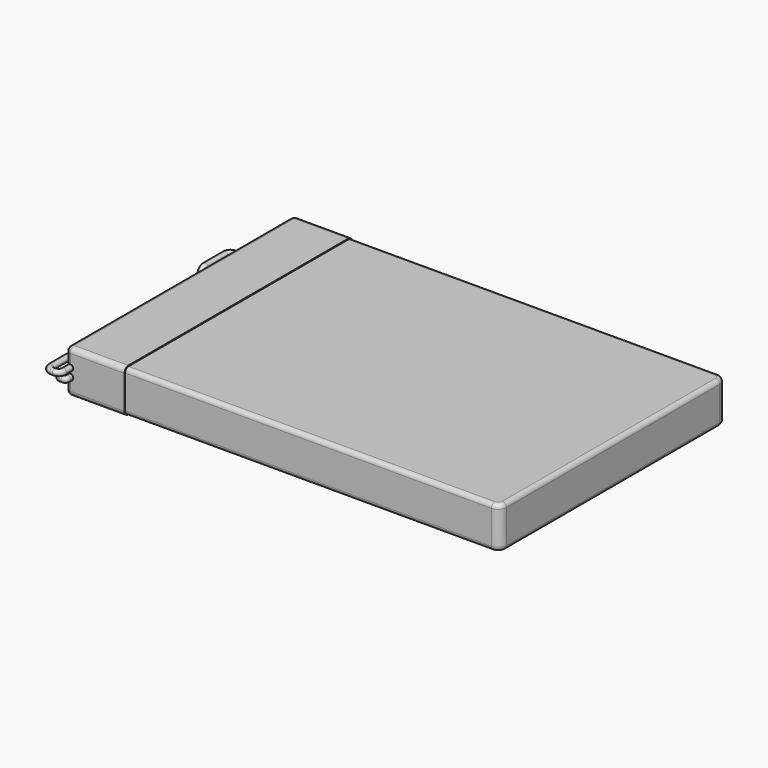
from build123d import *

# Parameters (mm, degrees)
SKETCH_W     = 52
SKETCH_H     = 34
PAD_DEPTH    = 2.5
FILLET_R     = 1
FILLET001_R  = 0.5
PAD001_DEPTH = 7
FILLET002_R  = 0.5
SKETCH002_R  = 0.35
SKETCH005_R  = 0.35
SKETCH006_R  = 0.35
SKETCH008_R  = 0.35
SKETCH010_W  = 3
SKETCH010_H  = 4
PAD002_DEPTH = 0.5
SKETCH011_W  = 2
SKETCH011_H  = 3
PAD003_DEPTH = 3
SKETCH012_W  = 1.156093
SKETCH012_H  = 0.532709
POCKET_DEPTH = 5


with BuildPart() as body:
    # Sketch → Pad (new body, symmetric)
    with BuildSketch(Plane.XY):
        Rectangle(SKETCH_W, SKETCH_H)
    extrude(amount=PAD_DEPTH, both=True)

    # Fillet
    fillet_edges = [body.edges().sort_by_distance(p)[0] for p in [
        (26, -17, 0),
        (26, 17, 0),
    ]]
    fillet(fillet_edges, radius=FILLET_R)

    # Fillet001
    fillet001_edges = [body.edges().sort_by_distance(p)[0] for p in [
        (-0.5, -17, 2.5),
        (-0.5, -17, -2.5),
    ]]
    fillet(fillet001_edges, radius=FILLET001_R)

    # Sketch001 (on Face5 of Fillet001) → Pad001 (join)
    with BuildSketch(Plane(origin=(-26, 0, 0), x_dir=(0, -1, 0), z_dir=(-1, 0, 0))):
        with BuildLine():
            ThreePointArc((-17.1, -2), (-16.9242640687, -2.4242640687), (-16.5, -2.6))
            Line((16.5, -2.6), (-16.5, -2.6))
            ThreePointArc((16.5, -2.6), (16.9242640687, -2.4242640687), (17.1, -2))
            Line((17.1, 2), (17.1, -2))
            ThreePointArc((17.1, 2), (16.9242640687, 2.4242640687), (16.5, 2.6))
            Line((-16.5, 2.6), (16.5, 2.6))
            ThreePointArc((-16.5, 2.6), (-16.9242640687, 2.4242640687), (-17.1, 2))
            Line((-17.1, -2), (-17.1, 2))
        make_face()
    extrude(amount=-PAD001_DEPTH)

    # Fillet002
    fillet002_edges = [body.edges().sort_by_distance(p)[0] for p in [
        (-26, 0, 2.6),
    ]]
    fillet(fillet002_edges, radius=FILLET002_R)

    # AdditivePipe: sweep along a path in Sketch003
    with BuildLine(Plane.XY.offset(0.5)) as additivepipe_path:
        Line((-25.5, -17.1), (-25.5, -18.1))
        ThreePointArc((-25.5, -18.1), (-25.6757359313, -18.5242640687), (-26.1, -18.7))
        Line((-26.1, -18.7), (-26.4, -18.7))
        ThreePointArc((-26.4, -18.7), (-26.8242640687, -18.5242640687), (-27, -18.1))
        Line((-27, -18.1), (-27, 9.9))
        ThreePointArc((-27, 9.9), (-27.1757359313, 10.3242640687), (-27.6, 10.5))
        Line((-27.6, 10.5), (-27.9, 10.5))
        ThreePointArc((-27.9, 10.5), (-28.3242640687, 10.3242640687), (-28.5, 9.9))
        Line((-28.5, 9.9), (-28.5, 6.9))
    # Sketch002 (on Face12 of Fillet002) → AdditivePipe (sweep)
    with BuildSketch(Plane.XZ.offset(17.1)):
        with Locations((-25.5, 0.5)):
            Circle(SKETCH002_R)
    sweep(path=additivepipe_path.line)

    # AdditivePipe001: sweep along a path in Sketch004
    with BuildLine(Plane.YZ.offset(-28.5)) as additivepipe001_path:
        ThreePointArc((6.9, 0.5), (6.4757359263, 0.3242640714), (6.2999999923, -0.1))
        Line((6.2999999923, -0.1), (6.2999999923, -1.1))
    # Sketch005 (on Face46 of AdditivePipe) → AdditivePipe001 (sweep)
    with BuildSketch(Plane.XZ.offset(-6.9)):
        with Locations((-28.5, 0.5)):
            Circle(SKETCH005_R)
    sweep(path=additivepipe001_path.line)

    # AdditivePipe002: sweep along a path in Sketch007
    with BuildLine(Plane.XY.offset(-0.5)) as additivepipe002_path:
        Line((-25.5, -17.1), (-25.5, -17.514687))
        ThreePointArc((-25.5, -17.514687), (-25.5822984625, -17.7133730643), (-25.7809845268, -17.7956715268))
        Line((-25.7809845268, -17.7956715268), (-26.0556564732, -17.7956715268))
        ThreePointArc((-26.0556564732, -17.7956715268), (-26.2543425375, -17.7133730643), (-26.336641, -17.514687))
        Line((-26.336641, -17.514687), (-26.336641, 8.9150462299))
        ThreePointArc((-26.336641, 8.9150462299), (-26.4189394625, 9.1137322942), (-26.6176255268, 9.1960307567))
        Line((-26.6176255268, 9.1960307567), (-27.1886263708, 9.1960307567))
        ThreePointArc((-27.1886263708, 9.1960307567), (-27.3873124351, 9.1137322942), (-27.4696108976, 8.9150462299))
        Line((-27.4696108976, 8.9150462299), (-27.4696108976, 5.598731777))
        ThreePointArc((-27.4696108976, 5.598731777), (-27.6403809339, 5.1799501118), (-28.0553007402, 5))
    # Sketch006 (on Face12 of AdditivePipe001) → AdditivePipe002 (sweep)
    with BuildSketch(Plane.XZ.offset(17.1)):
        with Locations((-25.5, -0.5)):
            Circle(SKETCH006_R)
    sweep(path=additivepipe002_path.line)

    # AdditivePipe003: sweep along a path in Sketch009
    with BuildLine(Plane.XZ.offset(-5)) as additivepipe003_path:
        ThreePointArc((-28.0553007402, -0.5), (-28.4118255913, -0.6493882878), (-28.5553628449, -1.0083087342))
    # Sketch008 (on Face53 of AdditivePipe002) → AdditivePipe003 (sweep)
    with BuildSketch(Plane(origin=(-27.9316253253, -0.6151974816, 0), x_dir=(0.0220197826, -0.9997575352, 0), z_dir=(-0.9997575352, -0.0220197826, 0))):
        with Locations((-5.6165592995, -0.5)):
            Circle(SKETCH008_R)
    sweep(path=additivepipe003_path.line)


with BuildPart() as conector:
    # Sketch010 (on ShapeBinder) → Pad002 (new body)
    with BuildSketch(Plane(origin=(0, 1.41e-08, -1.1000000808), x_dir=(1, 0, 0), z_dir=(0, 1.28e-08, -1))):
        with Locations((-28.48764, -5.707956)):
            Rectangle(SKETCH010_W, SKETCH010_H)
    extrude(amount=PAD002_DEPTH)

    # Sketch011 (on Face6 of Pad002) → Pad003 (join)
    with BuildSketch(Plane(origin=(0, 2.05e-08, -1.6000000808), x_dir=(1, 0, 0), z_dir=(0, 1.28e-08, -1))):
        with Locations((-28.48764, -5.707956)):
            Rectangle(SKETCH011_W, SKETCH011_H)
    extrude(amount=PAD003_DEPTH)

    # Sketch012 (on Face11 of Pad003) → Pocket (cut)
    with BuildSketch(Plane(origin=(0, 5.9e-08, -4.6000000808), x_dir=(1, 0, 0), z_dir=(0, 1.28e-08, -1))):
        with Locations((-28.4459495, -4.9839325)):
            Rectangle(SKETCH012_W, SKETCH012_H)
        with Locations((-28.4459495, -6.4120465)):
            Rectangle(SKETCH012_W, SKETCH012_H)
    extrude(amount=-POCKET_DEPTH, mode=Mode.SUBTRACT)


solid = Compound([body.part, conector.part])
